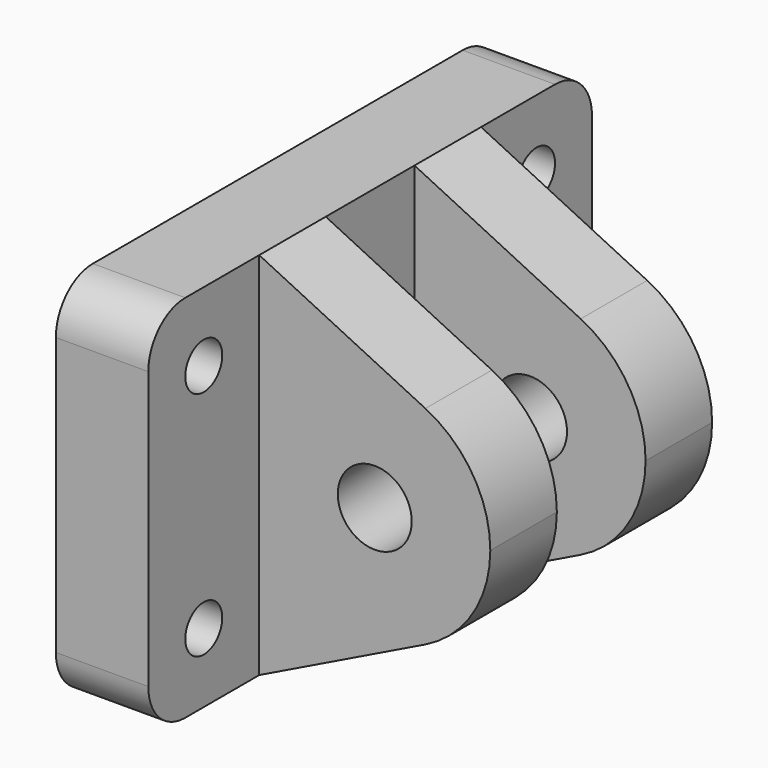
from build123d import *

# Parameters (mm, degrees)
F0_R     = 2.5
F1_DEPTH = 10
F2_W     = 30
F2_H     = 40
F3_DEPTH = 25
F4_R     = 4
F5_DEPTH = 30
F6_W     = 30
F6_H     = 12
F7_DEPTH = 40.001


with BuildPart() as f1:
    # F0 (on Right) → F1 (new body)
    with BuildSketch(Plane.YZ):
        with BuildLine():
            Line((25, 20), (-25, 20))
            ThreePointArc((-25, 20), (-28.535534, 18.535534), (-30, 15))
            Line((-30, 15), (-30, -15))
            ThreePointArc((-30, -15), (-28.535534, -18.535534), (-25, -20))
            Line((-25, -20), (25, -20))
            ThreePointArc((25, -20), (28.535534, -18.535534), (30, -15))
            Line((30, -15), (30, 15))
            ThreePointArc((30, 15), (28.535534, 18.535534), (25, 20))
        make_face()
        with Locations((-22.5, -12.5)):
            Circle(F0_R, mode=Mode.SUBTRACT)
        with Locations((22.5, -12.5)):
            Circle(F0_R, mode=Mode.SUBTRACT)
        with Locations((-22.5, 12.5)):
            Circle(F0_R, mode=Mode.SUBTRACT)
        with Locations((22.5, 12.5)):
            Circle(F0_R, mode=Mode.SUBTRACT)
    extrude(amount=F1_DEPTH)

    # F2 (on face) → F3 (join)
    with BuildSketch(Plane.YZ.offset(10)):
        Rectangle(F2_W, F2_H)
    extrude(amount=F3_DEPTH)

    # F4 (on face) → F5 (cut)
    with BuildSketch(Plane.XZ.offset(15)):
        with BuildLine():
            ThreePointArc((27.977528, 11.235955), (33.099979, 6.624987), (35, 0))
            Line((35, 0), (35, 20))
            Line((35, 20), (10, 20))
            Line((10, 20), (27.977528, 11.235955))
        make_face()
        with BuildLine():
            ThreePointArc((35, 0), (33.099979, -6.624987), (27.977528, -11.235955))
            Line((27.977528, -11.235955), (10, -20))
            Line((10, -20), (35, -20))
            Line((35, -20), (35, 0))
        make_face()
        with Locations((22.5, 0)):
            Circle(F4_R)
    extrude(amount=-F5_DEPTH, mode=Mode.SUBTRACT)

    # F6 (on face) → F7 (cut, through all)
    with BuildSketch(Plane.XY.offset(20)):
        with Locations((25, 0)):
            Rectangle(F6_W, F6_H)
    extrude(amount=-F7_DEPTH, mode=Mode.SUBTRACT)


solid = f1.part
